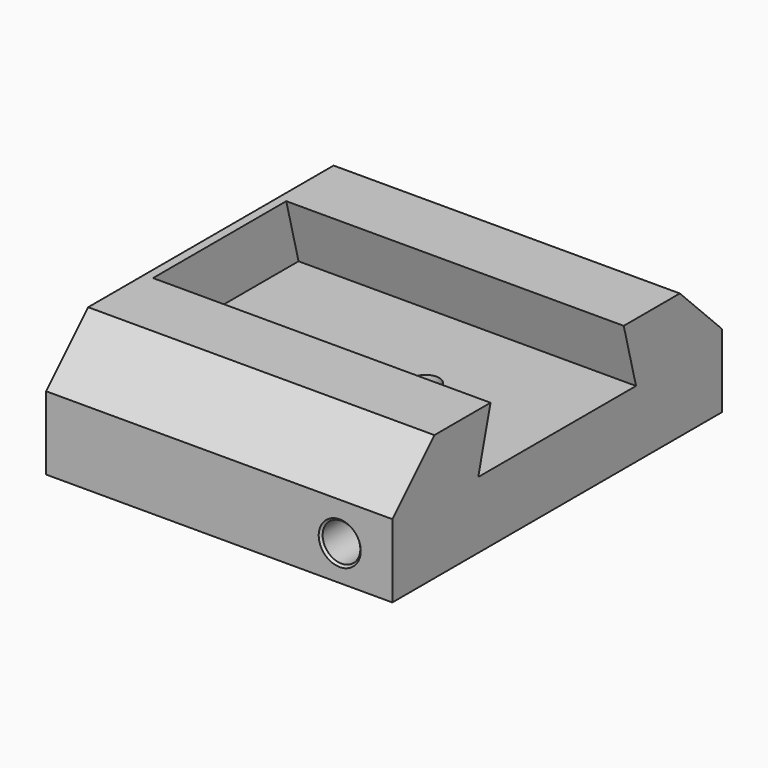
from build123d import *

# Parameters (mm, degrees)
PAD035_DEPTH    = 77
SKETCH115_R     = 3.1
POCKET071_DEPTH = 30
SKETCH116_R     = 4.3
POCKET072_DEPTH = 100
CHAMFER014_SIZE = 12
PAD036_DEPTH    = 2
SKETCH118_W     = 30
SKETCH118_H     = 16
POCKET073_DEPTH = 8
CHAMFER023_SIZE = 0.5


with BuildPart() as part:
    # Sketch114 → Pad035 (new body)
    with BuildSketch(Plane.YZ):
        Polygon((-47, 203.208383528), (-19, 203.208383528), (-22.5, 189.708383528), (22.5, 189.708383528), (19, 203.208383528), (47, 203.208383528), (47, 174.470931), (-47, 174.470931), align=None)
    extrude(amount=PAD035_DEPTH)

    # Sketch115 (on Face3 of Pad035) → Pocket071 (cut)
    with BuildSketch(Plane(origin=(0, 0, 189.708383528), x_dir=(0, -1, 0), z_dir=(0, 0, 1))):
        with Locations((0, 47)):
            Circle(SKETCH115_R)
    extrude(amount=-POCKET071_DEPTH, mode=Mode.SUBTRACT)

    # Sketch116 (on Face2 of Pocket071) → Pocket072 (cut)
    with BuildSketch(Plane(origin=(0, -47, 0), x_dir=(0, 0, -1), z_dir=(0, -1, 0))):
        with Locations((-182.470931, 65)):
            Circle(SKETCH116_R)
    extrude(amount=-POCKET072_DEPTH, mode=Mode.SUBTRACT)

    # Chamfer014
    chamfer014_edges = [part.edges().sort_by_distance(p)[0] for p in [
        (38.5, 47, 203.208384),
        (38.5, -47, 203.208384),
    ]]
    chamfer(chamfer014_edges, length=CHAMFER014_SIZE)

    # Sketch117 (on Face2 of Chamfer014) → Pad036 (join)
    with BuildSketch(Plane(origin=(0, 0, 0), x_dir=(0, 1, 0), z_dir=(-1, 0, 0))):
        Polygon((-47, -174.470931), (47, -174.470931), (47, -191.208383528), (35, -203.208383528), (-35, -203.208383528), (-47, -191.208383528), align=None)
    extrude(amount=PAD036_DEPTH)

    # Sketch118 (on Face15 of Pad036) → Pocket073 (cut)
    with BuildSketch(Plane.ZX.offset(47)):
        with Locations((189.470931, 65)):
            Rectangle(SKETCH118_W, SKETCH118_H)
        with Locations((189.470931, 12)):
            Rectangle(SKETCH118_W, SKETCH118_H)
    extrude(amount=-POCKET073_DEPTH, mode=Mode.SUBTRACT)

    # Chamfer023
    chamfer023_edges = [part.edges().sort_by_distance(p)[0] for p in [
        (73, 43, 195.208384),
        (57, 43, 195.208384),
        (57, 47, 182.839657),
        (73, 47, 182.839657),
        (20, 43, 195.208384),
        (4, 43, 195.208384),
        (4, 47, 182.839657),
        (20, 47, 182.839657),
        (47, 3.1, 174.470931),
        (65, 39, 186.770931),
        (65, -47, 186.770931),
    ]]
    chamfer(chamfer023_edges, length=CHAMFER023_SIZE)


with BuildPart() as part_1:
    # Body027 placement: moved
    add(part.part.moved(Location((-37, 0, 113))))


solid = part_1.part
